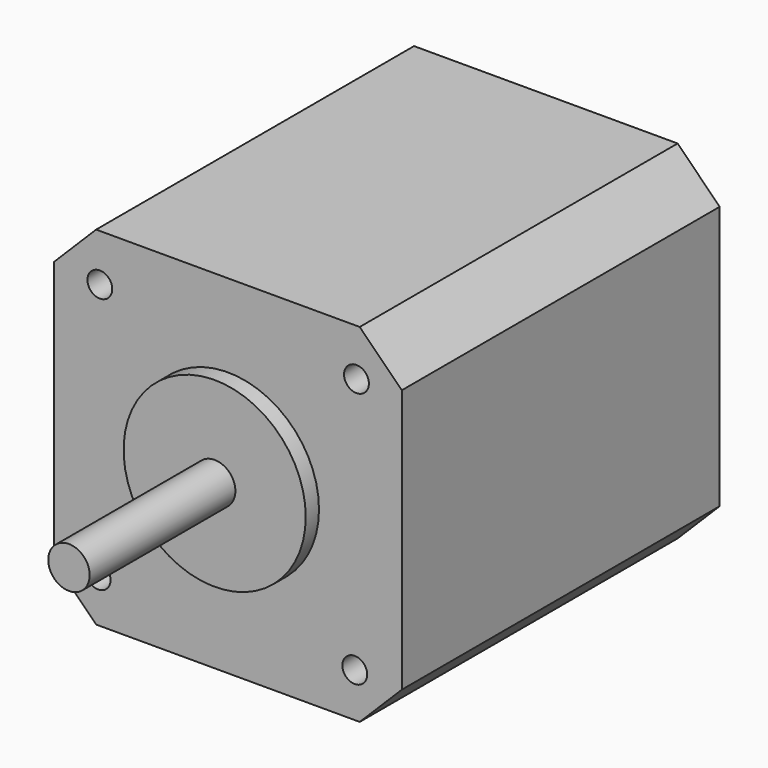
from build123d import *

# Parameters (mm, degrees)
F0_W     = 42
F0_H     = 42
F0_R     = 1.5
F1_DEPTH = 48
F2_SIZE  = 5.08
F3_R     = 11
F4_DEPTH = 2
F5_R     = 2.5
F6_DEPTH = 22


with BuildPart() as f1:
    # F0 (on Front) → F1 (new body)
    with BuildSketch(Plane.XZ):
        Rectangle(F0_W, F0_H)
        with Locations((-15.67623, -15.695493)):
            Circle(F0_R, mode=Mode.SUBTRACT)
        with Locations((15.32377, -15.667882)):
            Circle(F0_R, mode=Mode.SUBTRACT)
        with Locations((-15.472639, 15.304507)):
            Circle(F0_R, mode=Mode.SUBTRACT)
        with Locations((15.527361, 15.332118)):
            Circle(F0_R, mode=Mode.SUBTRACT)
    extrude(amount=F1_DEPTH)

    # F2
    f2_edges = [f1.edges().sort_by_distance(p)[0] for p in [
        (-21, -24, 21),
        (21, -24, 21),
        (21, -24, -21),
        (-21, -24, -21),
    ]]
    chamfer(f2_edges, length=F2_SIZE)

    # F3 (on face) → F4 (join)
    with BuildSketch(Plane.XZ.offset(48)):
        Circle(F3_R)
    extrude(amount=F4_DEPTH)

    # F5 (on face) → F6 (join)
    with BuildSketch(Plane.XZ.offset(50)):
        Circle(F5_R)
    extrude(amount=F6_DEPTH)


solid = f1.part
